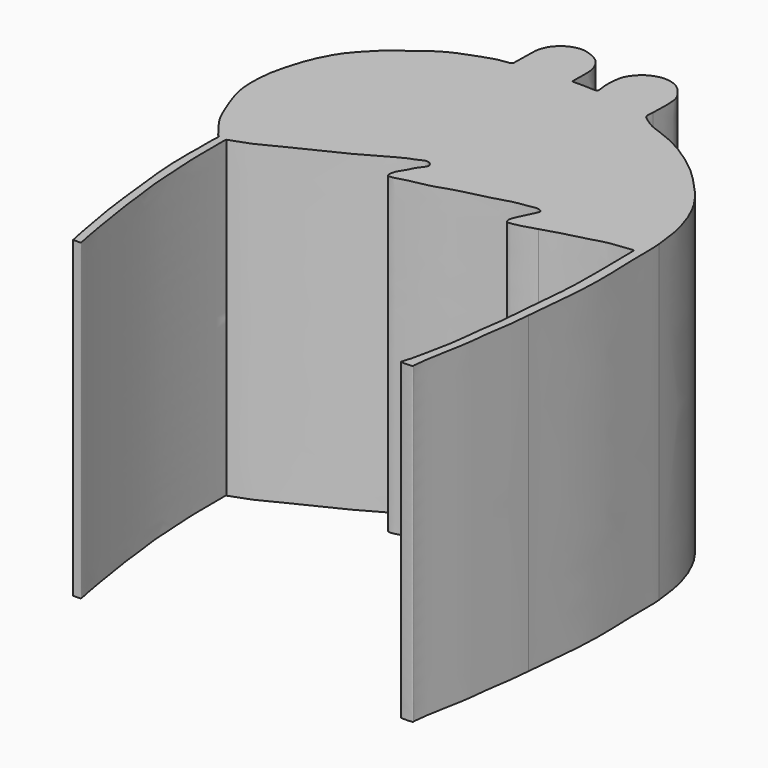
from build123d import *

# Parameters (mm, degrees)
F1_DEPTH = 17


with BuildPart() as f1:
    # F0 (on Top) → F1 (new body)
    with BuildSketch(Plane.XY):
        with BuildLine():
            add(Edge.make_bspline(
                [(3.7521093618, 15.3363551944), (3.7610247867, 15.5686954228), (3.7898356613, 16.0197073781), (3.7620401353, 16.6630547574), (3.6752363223, 17.1270251681), (3.2463299814, 17.6649455973), (2.8619226063, 17.9779630934), (2.2705373791, 18.1042600208), (1.7949404534, 18.0371799763), (1.3307901324, 17.8235815521), (0.994574678, 17.5068025412), (0.7224948121, 17.1130823289), (0.6517285166, 16.7444557615), (0.6171290122, 16.3164275577), (0.6135035293, 16.0307974828), (0.6558114546, 15.7507774751), (0.6847381891, 15.4513588009), (0.6156615498, 15.4101740222), (0.3059722695, 15.410505591), (-0.1778647095, 15.4351908387), (-0.494162665, 15.4303762602), (-0.6418118214, 15.4296601765), (-0.7075667381, 15.4293412343)],
                knots=[0, 0, 0, 0, 0.06549537, 0.1278816936, 0.1815957168, 0.2454217265, 0.3011106883, 0.3606595505, 0.4151577074, 0.4704292313, 0.5240001747, 0.5774329426, 0.6257163574, 0.6768729774, 0.7186633893, 0.761841263, 0.8030037312, 0.8214121069, 0.863840116, 0.9202059083, 0.9644566268, 1, 1, 1, 1], degree=3))
            add(Edge.make_bspline(
                [(-0.7075667381, 15.4293412343), (-0.7115908858, 15.625121428), (-0.7182328284, 16.0416612548), (-0.6587465432, 16.7242171764), (-0.9942319429, 17.5322482314), (-1.6525668662, 17.8758412717), (-2.1889230624, 18.0213729688), (-2.6721287621, 17.9182138943), (-2.9848593148, 17.7604169673), (-3.2374645001, 17.5640962054), (-3.4477482201, 17.3162854121), (-3.583352879, 17.0366051463), (-3.6882842667, 16.716663976), (-3.6878120181, 16.091722216), (-3.7027269634, 15.621721623), (-3.6894120756, 15.2358362928), (-3.7515427382, 15.0829002524), (-4.3833287005, 15.067636612), (-5.3187374265, 14.7215791176), (-6.7047580653, 14.2251399532), (-7.7209360794, 13.3841827946), (-8.7522234137, 12.6623024364), (-9.4574014942, 11.9170538394), (-10.0282834162, 11.2416489141), (-10.4915344538, 10.3557004411), (-10.7697270796, 9.6573844647), (-11.0134884084, 8.8120113914), (-11.1889675521, 8.1339937764), (-11.2826834809, 7.1516142064), (-11.2541413173, 6.1738124874), (-11.0092727568, 5.2638758822), (-10.6150293498, 4.2551498589), (-10.2125316297, 3.3074545145), (-9.6154353621, 2.5922901144), (-9.3222308491, 2.1733271061), (-9.1917934699, 2.145907672), (-9.2766865066, 1.5872012803), (-9.224239362, 1.0499732584), (-9.2698035965, 0.3614827992), (-9.2495596607, -0.82226424), (-9.214051357, -1.7825738186), (-9.0239692631, -3.3072714179), (-8.8475864052, -4.9847927903), (-8.7331801301, -5.9237020119), (-8.4892547144, -7.2134614586), (-8.3393446832, -8.1351516525), (-8.1454922618, -9.1667018094), (-8.1160318294, -9.128282774), (-7.7414774756, -9.1317329207), (-7.7090622549, -9.1289804849), (-7.8176647116, -8.54576165), (-7.9431330331, -8.0275453132), (-8.1161424157, -6.7531233356), (-8.2627176306, -6.0363284335), (-8.37196404, -5.2426846412), (-8.4108828203, -4.6525163703), (-8.5705601864, -3.751980211), (-8.7171724288, -2.3515112094), (-8.7435439329, -1.1520302459), (-8.8336184853, -0.1829866396), (-8.8093720189, 0.8354688276), (-8.8208924723, 1.3568018733), (-8.8433386201, 2.0478188857), (-8.8128742344, 2.09101624), (-8.8067129254, 2.0998362452)],
                knots=[0, 0, 0, 0, 0.0149636169, 0.0309165011, 0.0484200067, 0.0647229828, 0.0789946932, 0.0922635155, 0.1036079672, 0.1144117842, 0.1253432455, 0.1359035867, 0.1470426268, 0.1621828137, 0.175905249, 0.1875189764, 0.1941905236, 0.2083927021, 0.2281071557, 0.251435574, 0.2736872001, 0.2952511541, 0.314626647, 0.3327729866, 0.3518303143, 0.3687389869, 0.3865360268, 0.4027683601, 0.4217689469, 0.4408551529, 0.4594877639, 0.4795111244, 0.4992057253, 0.5181028182, 0.531184871, 0.5368600952, 0.5503861225, 0.5650026816, 0.5809520635, 0.6017322328, 0.6208069797, 0.64477883, 0.669790864, 0.6887675809, 0.7102349033, 0.7306183329, 0.7487094159, 0.7513063627, 0.7630661187, 0.7658120274, 0.7793987139, 0.7948067393, 0.8162704597, 0.8333305411, 0.8501503232, 0.8648863966, 0.8831368843, 0.9062048421, 0.9273914968, 0.9465738083, 0.9655981143, 0.9805133155, 0.9958600196, 1, 1, 1, 1], degree=3))
            add(Edge.make_bspline(
                [(-8.8067129254, 2.0998362452), (-8.683446335, 2.1411433704), (-8.3874713722, 2.2408083363), (-7.6319459567, 2.5107139888), (-6.7799235326, 2.9652108308), (-5.8125329107, 3.4612532635), (-4.8214610083, 3.9263357771), (-3.7773363202, 4.4351043058), (-2.7155644483, 5.0259283824), (-1.7962777117, 5.5803750391), (-1.3639862211, 5.6831024142), (-1.0419653245, 5.8845756582), (-0.81640139, 5.8659068939), (-0.7255468651, 5.7957301908), (-0.6829394842, 5.7628261857)],
                knots=[0, 0, 0, 0, 0.0654896443, 0.1546930224, 0.2543260568, 0.3589865708, 0.4640178825, 0.5720320049, 0.6847363511, 0.7875612177, 0.8541076398, 0.9140754227, 0.9596279309, 1, 1, 1, 1], degree=3))
            add(Edge.make_bspline(
                [(-0.6829394842, 5.7628261857), (-0.6444259603, 5.6985027951), (-0.5587608388, 5.5554292857), (-0.791484545, 5.2949628776), (-0.9862934291, 5.0051803078), (-1.0948928315, 4.7112329127), (-1.3260285968, 4.4100970928), (-1.4252589341, 4.1488275722), (-1.4934712027, 3.7437888844), (-0.9622062264, 3.8168188123), (-0.4275460977, 4.0164925962), (0.5138836168, 4.1334525293), (1.4206149933, 4.5015240902), (2.6813140131, 4.7983512586), (3.6406299998, 5.034252232), (4.3491235867, 5.2822380602), (5.0659355777, 5.3404505573), (5.323803875, 5.4283658829), (5.5810210428, 5.3975205326), (5.7370727618, 5.2721753625), (5.6139181162, 5.0085565709), (5.4976393573, 4.7509461474), (5.3009063059, 4.3760770243), (5.1765753239, 4.0882635372), (5.0915731877, 3.8626528092), (5.1598246329, 3.6040836437), (5.4440193827, 3.6324712094), (6.0377404214, 3.756080416), (6.4444570842, 3.8920829166), (6.6516185179, 3.9613558911)],
                knots=[0, 0, 0, 0, 0.0256894715, 0.0570800902, 0.0907699606, 0.1222962157, 0.1563219676, 0.187325552, 0.2176871965, 0.2529991842, 0.2970396464, 0.3509093875, 0.4072414386, 0.4712987926, 0.5272934319, 0.5764842155, 0.6233065123, 0.6525591878, 0.6802454775, 0.7025668588, 0.7306593846, 0.7616073777, 0.7981202255, 0.8298553644, 0.8573492895, 0.8830387846, 0.9101262456, 0.954173135, 1, 1, 1, 1], degree=3))
            add(Edge.make_bspline(
                [(6.6516185179, 3.9613558911), (6.8113872692, 4.0021396043), (7.1632200341, 4.0919234224), (7.8568006771, 4.3483039785), (8.7503740041, 4.5241315462), (9.6981866861, 4.8406693892), (10.4273052071, 4.9002380365), (10.7736311785, 4.9417510642), (11.0496517127, 4.9855592851), (11.0115140114, 4.755058502), (11.0397914188, 3.9483223006), (11.049922038, 3.1118115737), (11.064144675, 2.0911273591), (11.0592131905, 1.0992759592), (10.993518732, -0.0237839332), (10.8466170008, -1.3999526354), (10.7526548869, -2.8503417022), (10.6980563164, -3.3619883216), (10.6749031693, -3.5705058835)],
                knots=[0, 0, 0, 0, 0.0514200085, 0.1125626876, 0.1815089261, 0.2538558334, 0.3145132885, 0.3576237443, 0.3901028604, 0.4183141858, 0.4822447872, 0.5497860447, 0.6215563417, 0.692848766, 0.7682430911, 0.8538875443, 0.9401931008, 1, 1, 1, 1], degree=3))
            add(Edge.make_bspline(
                [(10.6749031693, -3.5705058835), (10.6144284203, -3.9329819072), (10.5025564382, -4.6035247678), (10.4742137012, -5.3347073195), (10.3289328761, -6.1124743534), (10.3080249007, -6.48967669), (10.1884613847, -7.146741342), (10.0633056369, -7.7176432979), (9.9412245186, -8.1544935437), (9.8785551533, -8.6750857323), (9.6862583057, -9.1614279893), (9.728421255, -9.2187019024), (10.3754302336, -9.2104441906), (10.3136613534, -9.1157826718), (10.4380619282, -8.1653770123), (10.6833338034, -6.9072378216), (10.8728568534, -5.8535058691), (10.9372940108, -4.8553797359), (11.1522520656, -3.7340208531), (11.2222341105, -2.9010072852), (11.2582361326, -2.4724663235)],
                knots=[0, 0, 0, 0, 0.0701180703, 0.1297111213, 0.1891701553, 0.2318280339, 0.2871382495, 0.340040439, 0.3855001226, 0.4371150871, 0.4842853501, 0.4993634899, 0.5520350689, 0.5663504729, 0.6302505961, 0.7113355666, 0.7818243473, 0.8496993131, 0.9226783291, 1, 1, 1, 1], degree=3))
            add(Edge.make_bspline(
                [(11.2582361326, -2.4724663235), (11.2766648264, -2.2435440616), (11.3173596544, -1.7261418211), (11.4271142658, -0.562998125), (11.5551012837, 0.6009804543), (11.5885110628, 1.4920522566), (11.5871507264, 2.683367259), (11.5449437581, 3.7610484392), (11.5127711244, 4.7487853949), (11.5203103043, 5.4139947192), (11.5176132113, 5.8468971351), (11.4894472063, 6.0727987438)],
                knots=[0, 0, 0, 0, 0.0980896073, 0.2226882209, 0.3470153783, 0.4555568367, 0.5798472985, 0.7008914945, 0.8141520085, 0.9072905747, 1, 1, 1, 1], degree=3))
            add(Edge.make_bspline(
                [(11.4894472063, 6.0727987438), (11.4660047081, 6.2828467729), (11.4180765323, 6.7572126957), (11.2772873477, 7.6359795358), (10.9881793005, 8.6177483129), (10.6351991982, 9.3672522298), (10.389174034, 9.8464403692), (9.8302606814, 10.6207988512), (9.1692745277, 11.3346680288), (8.211413706, 12.3329141911), (7.111039688, 13.1028015389), (6.3069936031, 13.6200605976), (5.1984644543, 14.093925775), (4.4503119199, 14.3162680543), (3.9410698252, 14.7112041554), (3.8277428299, 14.775123623), (3.6765082425, 14.9785029506), (3.7570473411, 15.2009341489), (3.7521093618, 15.3363551944)],
                knots=[0, 0, 0, 0, 0.0590447261, 0.1272417867, 0.2009438474, 0.2656124954, 0.3184011887, 0.3873338423, 0.4593559948, 0.5442595368, 0.6275060988, 0.6985692036, 0.7767683735, 0.8424307606, 0.8976313113, 0.9234614504, 0.9563864424, 1, 1, 1, 1], degree=3))
        make_face()
    extrude(amount=F1_DEPTH)


solid = f1.part
